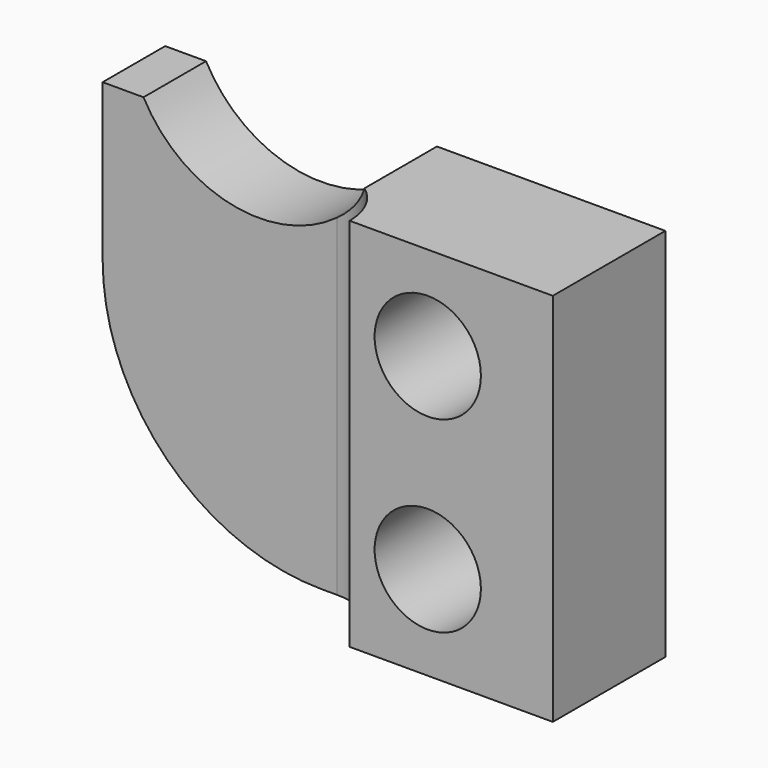
from build123d import *

# Parameters (mm, degrees)
CYLINDER219_R          = 1.7
CYLINDER219_DEPTH      = 20
CYLINDER219_ROLL_ANGLE = 90
CYLINDER218_R          = 1.7
CYLINDER218_DEPTH      = 20
CYLINDER218_ROLL_ANGLE = 90
CYLINDER217_R          = 4.2
CYLINDER217_DEPTH      = 18
CYLINDER217_ROLL_ANGLE = 90
BOX001027045165_W      = 10
BOX001027045165_H      = 4
BOX001027045165_DEPTH  = 60
CYLINDER216_R          = 2
CYLINDER216_DEPTH      = 74
BOX001027045155_W      = 16
BOX001027045155_H      = 4.5
BOX001027045155_DEPTH  = 12
FILLET032_R            = 7


with BuildPart() as cylinder258:
    # Cylinder219 → Cylinder219 (new body)
    with BuildSketch(Plane.XY):
        Circle(CYLINDER219_R)
    extrude(amount=CYLINDER219_DEPTH)


with BuildPart() as cylinder258_1:
    # Cylinder219 roll: moved
    add(cylinder258.part.rotate(Axis((0, 0, 0), (1, 0, 0)), CYLINDER219_ROLL_ANGLE))


with BuildPart() as cylinder258_2:
    # Cylinder219 placement: moved
    add(cylinder258_1.part.moved(Location((7, 11, -13))))


with BuildPart() as top_slot_m3_clearance:
    # Cylinder218 → Cylinder218 (new body)
    with BuildSketch(Plane.XY):
        Circle(CYLINDER218_R)
    extrude(amount=CYLINDER218_DEPTH)


with BuildPart() as top_slot_m3_clearance_1:
    # Cylinder218 roll: moved
    add(top_slot_m3_clearance.part.rotate(Axis((0, 0, 0), (1, 0, 0)), CYLINDER218_ROLL_ANGLE))


with BuildPart() as top_slot_m3_clearance_2:
    # Cylinder218 placement: moved
    add(top_slot_m3_clearance_1.part.moved(Location((7, 11, -19))))

    # Fusion112117: union Cylinder258
    add(cylinder258_2.part)


with BuildPart() as rocker_cut002:
    # Cylinder217 → Cylinder217 (new body)
    with BuildSketch(Plane.XY):
        Circle(CYLINDER217_R)
    extrude(amount=CYLINDER217_DEPTH)


with BuildPart() as rocker_cut002_1:
    # Cylinder217 roll: moved
    add(rocker_cut002.part.rotate(Axis((0, 0, 0), (1, 0, 0)), CYLINDER217_ROLL_ANGLE))


with BuildPart() as rocker_cut002_2:
    # Cylinder217 placement: moved
    add(rocker_cut002_1.part.moved(Location((0, 9, -8))))


with BuildPart() as cube213:
    # Box001027045165 → Box001027045165 (new body)
    with BuildSketch(Plane(origin=(-10, -2, -57), x_dir=(1, 0, 0), z_dir=(0, 0, 1))):
        with Locations((5, 2)):
            Rectangle(BOX001027045165_W, BOX001027045165_H)
    extrude(amount=BOX001027045165_DEPTH)


with BuildPart() as fusion112116:
    # Cylinder216 → Cylinder216 (new body)
    with BuildSketch(Plane.XY.offset(-62)):
        Circle(CYLINDER216_R)
    extrude(amount=CYLINDER216_DEPTH)

    # Fusion112116: union Cube213
    add(cube213.part)


with BuildPart() as fusion112116_1:
    # Fusion112116 placement: moved
    add(fusion112116.part.moved(Location((2.5, 0, 0))))


with BuildPart() as top_slot_plate:
    # Box001027045155 → Box001027045155 (new body)
    with BuildSketch(Plane(origin=(-5, 0, -22), x_dir=(1, 0, 0), z_dir=(0, 0, 1))):
        with Locations((8, 2.25)):
            Rectangle(BOX001027045155_W, BOX001027045155_H)
    extrude(amount=BOX001027045155_DEPTH)

    # Cut196: cut Fusion112116
    add(fusion112116_1.part, mode=Mode.SUBTRACT)

    # Cut197: cut rocker-cut002
    add(rocker_cut002_2.part, mode=Mode.SUBTRACT)

    # Cut198: cut top-slot-m3-clearance
    add(top_slot_m3_clearance_2.part, mode=Mode.SUBTRACT)

    # Fillet032
    fillet032_edges = [top_slot_plate.edges().sort_by_distance(p)[0] for p in [
        (-5, 3.25, -22),
    ]]
    fillet(fillet032_edges, radius=FILLET032_R)


solid = top_slot_plate.part
